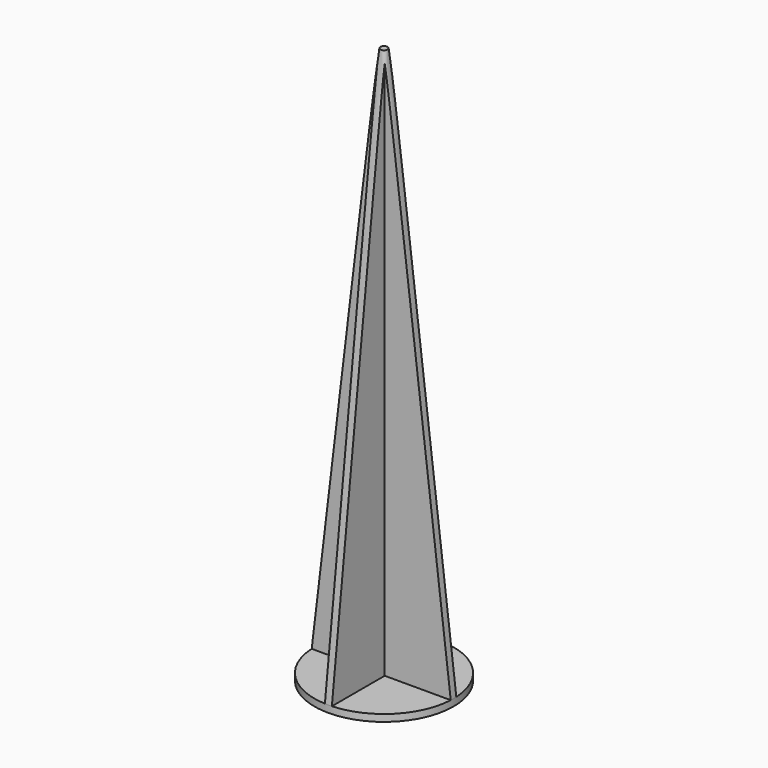
from build123d import *

# Parameters (mm, degrees)
CYLINDER_R     = 10
CYLINDER_DEPTH = 1
BOX001_W       = 20
BOX001_H       = 1
BOX001_DEPTH   = 80
BOX_W          = 20
BOX_H          = 1
BOX_DEPTH      = 80


with BuildPart() as cylinder:
    # Cylinder → Cylinder (new body)
    with BuildSketch(Plane.XY):
        Circle(CYLINDER_R)
    extrude(amount=CYLINDER_DEPTH)


with BuildPart() as cube001:
    # Box001 → Box001 (new body)
    with BuildSketch(Plane(origin=(0.5, -10, 0), x_dir=(0, 1, 0), z_dir=(0, 0, 1))):
        with Locations((10, 0.5)):
            Rectangle(BOX001_W, BOX001_H)
    extrude(amount=BOX001_DEPTH)


with BuildPart() as fusion:
    # Box → Box (new body)
    with BuildSketch(Plane(origin=(-10, -0.5, 0), x_dir=(1, 0, 0), z_dir=(0, 0, 1))):
        with Locations((10, 0.5)):
            Rectangle(BOX_W, BOX_H)
    extrude(amount=BOX_DEPTH)

    # Fusion: union Cube001
    add(cube001.part)


with BuildPart() as groundanchor:
    # Cone → Cone (revolve)
    with BuildSketch(Plane(origin=(0, 0, 1), x_dir=(1, 0, 0), z_dir=(0, -1, 0))):
        Polygon((0, 0), (10, 0), (0.4, 80), (0, 80), align=None)
    revolve(axis=Axis((0, 0, 1), (0, 0, 1)))

    # Common: intersect Fusion
    add(fusion.part, mode=Mode.INTERSECT)

    # Fusion001: union Cylinder
    add(cylinder.part)


solid = groundanchor.part
